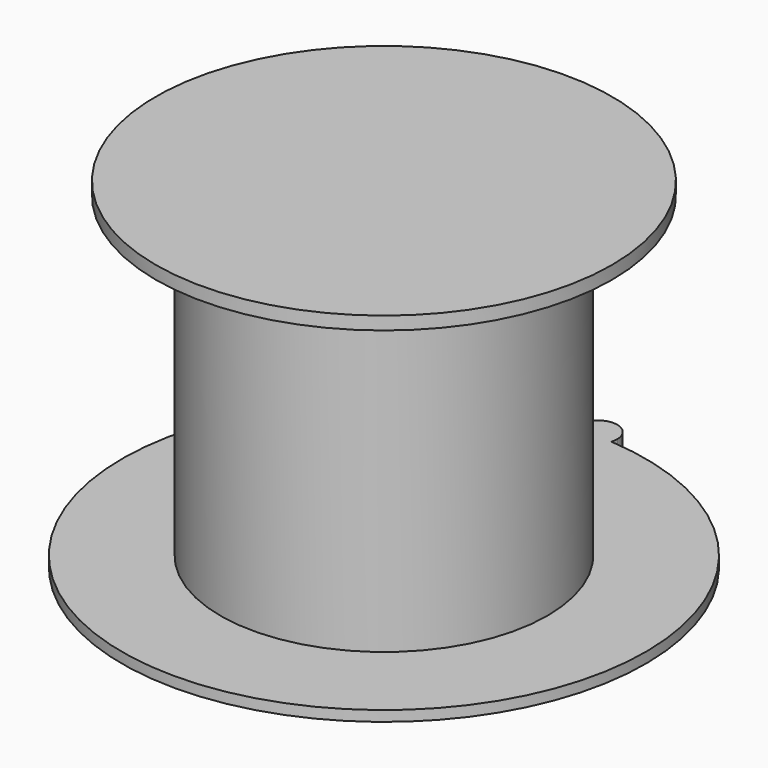
from build123d import *

# Parameters (mm, degrees)
F0_R     = 125
F0_R_2   = 120
F1_DEPTH = 250
F3_DEPTH = 8
F4_R     = 174.2845789598
F5_DEPTH = 10


with BuildPart() as f1:
    # F0 (on Top) → F1 (new body)
    with BuildSketch(Plane.XY):
        Circle(F0_R)
        Circle(F0_R_2, mode=Mode.SUBTRACT)
    extrude(amount=F1_DEPTH)

    # F2 (on Top) → F3 (join)
    with BuildSketch(Plane.XY):
        with BuildLine():
            ThreePointArc((14.2534139423, 199.4914539297), (14.8121775768, 201.7984987702), (15, 204.1648029419))
            ThreePointArc((15, 204.1648029419), (-2.3663041716, 218.9769805187), (-14.2534139423, 199.4914539297))
            ThreePointArc((-14.2534139423, 199.4914539297), (0, 200), (14.2534139423, 199.4914539297))
        make_face()
        with BuildLine():
            ThreePointArc((14.2534139423, 199.4914539297), (0, 200), (-14.2534139423, 199.4914539297))
            ThreePointArc((-14.2534139423, 199.4914539297), (0, 189.1648029419), (14.2534139423, 199.4914539297))
        make_face()
        with BuildLine():
            ThreePointArc((14.2534139423, 199.4914539297), (0, 189.1648029419), (-14.2534139423, 199.4914539297))
            ThreePointArc((-14.2534139423, 199.4914539297), (-136.2888792447, -146.3739778589), (200, 0))
            ThreePointArc((200, 0), (146.3739778589, 136.2888792447), (14.2534139423, 199.4914539297))
        make_face()
    extrude(amount=F3_DEPTH)

    # F4 (on face) → F5 (join)
    with BuildSketch(Plane.XY.offset(250)):
        Circle(F4_R)
    extrude(amount=F5_DEPTH)


solid = f1.part
